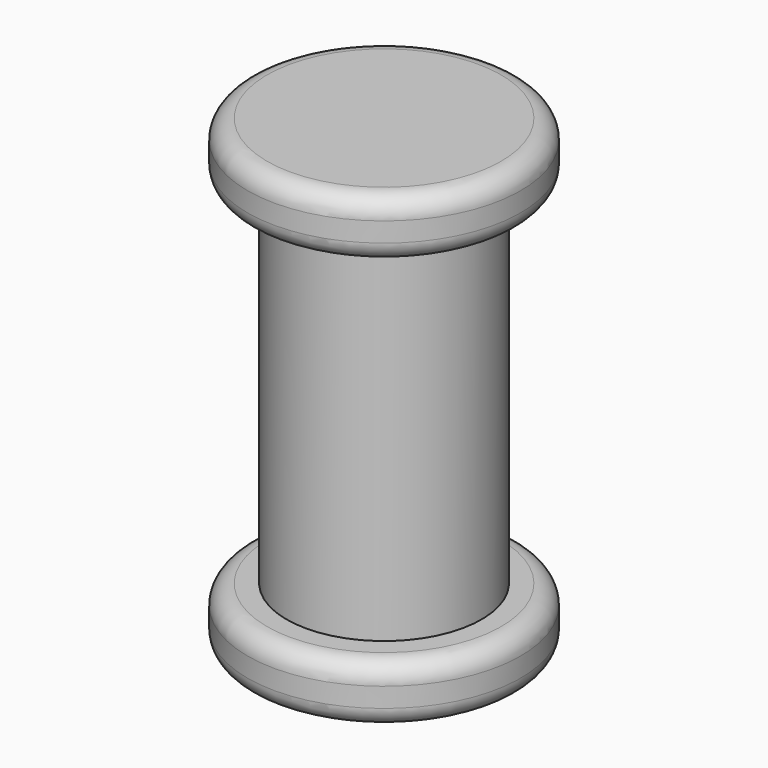
from build123d import *

# Parameters (mm, degrees)
F2_R = 0.5


with BuildPart() as f1:
    # F0 (on Right) → F1 (revolve)
    with BuildSketch(Plane.YZ):
        Polygon((-3.5, 0), (0, 0), (0, 12), (-3.5, 12), (-3.5, 10.5), (-2.5, 10.5), (-2.5, 1.5), (-3.5, 1.5), align=None)
    revolve(axis=Axis((0, 0, 6), (0, 0, -1)))

    # F2
    f2_edges = [f1.edges().sort_by_distance(p)[0] for p in [
        (0, 3.5, 12),
        (0, 3.5, 10.5),
        (0, -3.5, 11.25),
        (0, 3.5, 1.5),
        (0, 3.5, 0),
        (0, -3.5, 0.75),
    ]]
    fillet(f2_edges, radius=F2_R)


solid = f1.part
